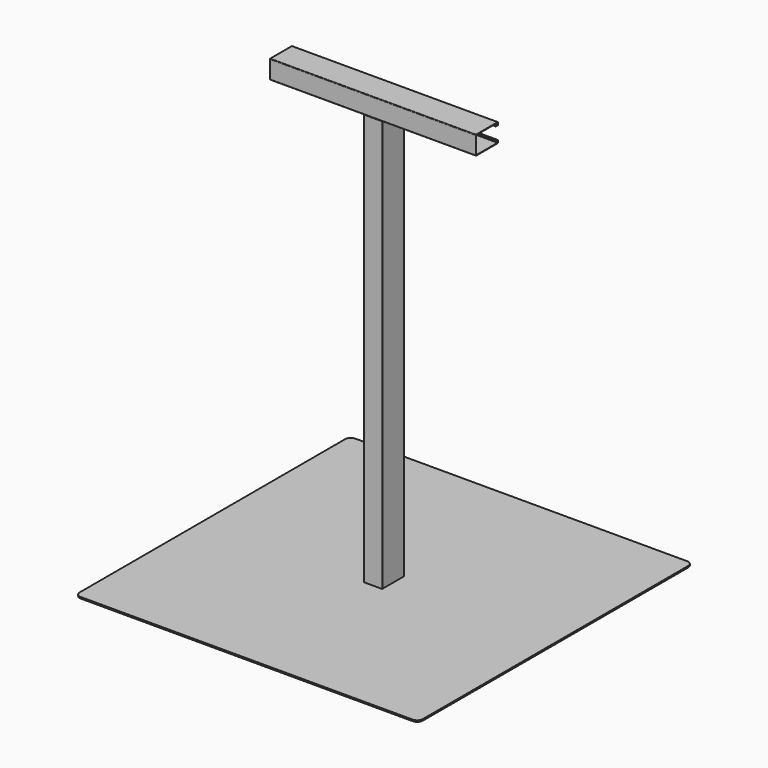
from build123d import *

# Parameters (mm, degrees)
F1_DEPTH = 914.4
F2_W     = 762
F2_H     = 762
F3_DEPTH = 3.175
F4_R     = 12.7
F6_DEPTH = 228.6


with BuildPart() as f1:
    # F0 (on Top) → F1 (new body)
    with BuildSketch(Plane.XY):
        with BuildLine():
            Line((-19.3675, -30.95625), (0, -30.95625))
            Line((0, -30.95625), (19.3675, -30.95625))
            ThreePointArc((19.3675, -30.95625), (20.265526, -30.584276), (20.6375, -29.68625))
            Line((20.6375, -29.68625), (20.6375, 29.68625))
            ThreePointArc((20.6375, 29.68625), (20.265526, 30.584276), (19.3675, 30.95625))
            Line((19.3675, 30.95625), (15.5575, 30.95625))
            ThreePointArc((15.5575, 30.95625), (14.659474, 30.584276), (14.2875, 29.68625))
            Line((14.2875, 29.68625), (14.2875, 24.60625))
            Line((14.2875, 24.60625), (15.29505, 24.60625))
            Line((15.29505, 24.60625), (15.29505, 29.68625))
            ThreePointArc((15.29505, 29.68625), (15.37192, 29.87183), (15.5575, 29.9487))
            Line((15.5575, 29.9487), (19.3675, 29.9487))
            ThreePointArc((19.3675, 29.9487), (19.55308, 29.87183), (19.62995, 29.68625))
            Line((19.62995, 29.68625), (19.62995, -29.68625))
            ThreePointArc((19.62995, -29.68625), (19.55308, -29.87183), (19.3675, -29.9487))
            Line((19.3675, -29.9487), (0, -29.9487))
            Line((0, -29.9487), (-19.3675, -29.9487))
            ThreePointArc((-19.3675, -29.9487), (-19.55308, -29.87183), (-19.62995, -29.68625))
            Line((-19.62995, -29.68625), (-19.62995, 29.68625))
            ThreePointArc((-19.62995, 29.68625), (-19.55308, 29.87183), (-19.3675, 29.9487))
            Line((-19.3675, 29.9487), (-15.5575, 29.9487))
            ThreePointArc((-15.5575, 29.9487), (-15.37192, 29.87183), (-15.29505, 29.68625))
            Line((-15.29505, 29.68625), (-15.29505, 24.60625))
            Line((-15.29505, 24.60625), (-14.2875, 24.60625))
            Line((-14.2875, 24.60625), (-14.2875, 29.68625))
            ThreePointArc((-14.2875, 29.68625), (-14.659474, 30.584276), (-15.5575, 30.95625))
            Line((-15.5575, 30.95625), (-19.3675, 30.95625))
            ThreePointArc((-19.3675, 30.95625), (-20.265526, 30.584276), (-20.6375, 29.68625))
            Line((-20.6375, 29.68625), (-20.6375, -29.68625))
            ThreePointArc((-20.6375, -29.68625), (-20.265526, -30.584276), (-19.3675, -30.95625))
        make_face()
    extrude(amount=F1_DEPTH)

    # F2 (on Top) → F3 (join)
    with BuildSketch(Plane.XY):
        Rectangle(F2_W, F2_H)
    extrude(amount=-F3_DEPTH)

    # F4
    f4_edges = [f1.edges().sort_by_distance(p)[0] for p in [
        (381, -381, -1.5875),
        (381, 381, -1.5875),
        (-381, 381, -1.5875),
        (-381, -381, -1.5875),
    ]]
    fillet(f4_edges, radius=F4_R)

    # F5 (on Right) → F6 (join, symmetric)
    with BuildSketch(Plane.YZ):
        with BuildLine():
            Line((-29.9487, 915.67), (-29.9487, 954.405))
            ThreePointArc((-29.9487, 954.405), (-29.87183, 954.59058), (-29.68625, 954.66745))
            Line((-29.68625, 954.66745), (29.68625, 954.66745))
            ThreePointArc((29.68625, 954.66745), (29.87183, 954.59058), (29.9487, 954.405))
            Line((29.9487, 954.405), (29.9487, 950.595))
            ThreePointArc((29.9487, 950.595), (29.87183, 950.40942), (29.68625, 950.33255))
            Line((29.68625, 950.33255), (24.60625, 950.33255))
            Line((24.60625, 950.33255), (24.60625, 949.325))
            Line((24.60625, 949.325), (29.68625, 949.325))
            ThreePointArc((29.68625, 949.325), (30.584276, 949.696974), (30.95625, 950.595))
            Line((30.95625, 950.595), (30.95625, 954.405))
            ThreePointArc((30.95625, 954.405), (30.584276, 955.303026), (29.68625, 955.675))
            Line((29.68625, 955.675), (-29.68625, 955.675))
            ThreePointArc((-29.68625, 955.675), (-30.584276, 955.303026), (-30.95625, 954.405))
            Line((-30.95625, 954.405), (-30.95625, 935.0375))
            Line((-30.95625, 935.0375), (-30.95625, 915.67))
            ThreePointArc((-30.95625, 915.67), (-30.584276, 914.771974), (-29.68625, 914.4))
            Line((-29.68625, 914.4), (29.68625, 914.4))
            ThreePointArc((29.68625, 914.4), (30.584276, 914.771974), (30.95625, 915.67))
            Line((30.95625, 915.67), (30.95625, 919.48))
            ThreePointArc((30.95625, 919.48), (30.584276, 920.378026), (29.68625, 920.75))
            Line((29.68625, 920.75), (24.60625, 920.75))
            Line((24.60625, 920.75), (24.60625, 919.74245))
            Line((24.60625, 919.74245), (29.68625, 919.74245))
            ThreePointArc((29.68625, 919.74245), (29.87183, 919.66558), (29.9487, 919.48))
            Line((29.9487, 919.48), (29.9487, 915.67))
            ThreePointArc((29.9487, 915.67), (29.87183, 915.48442), (29.68625, 915.40755))
            Line((29.68625, 915.40755), (-29.68625, 915.40755))
            ThreePointArc((-29.68625, 915.40755), (-29.87183, 915.48442), (-29.9487, 915.67))
        make_face()
    extrude(amount=F6_DEPTH, both=True)


solid = f1.part
